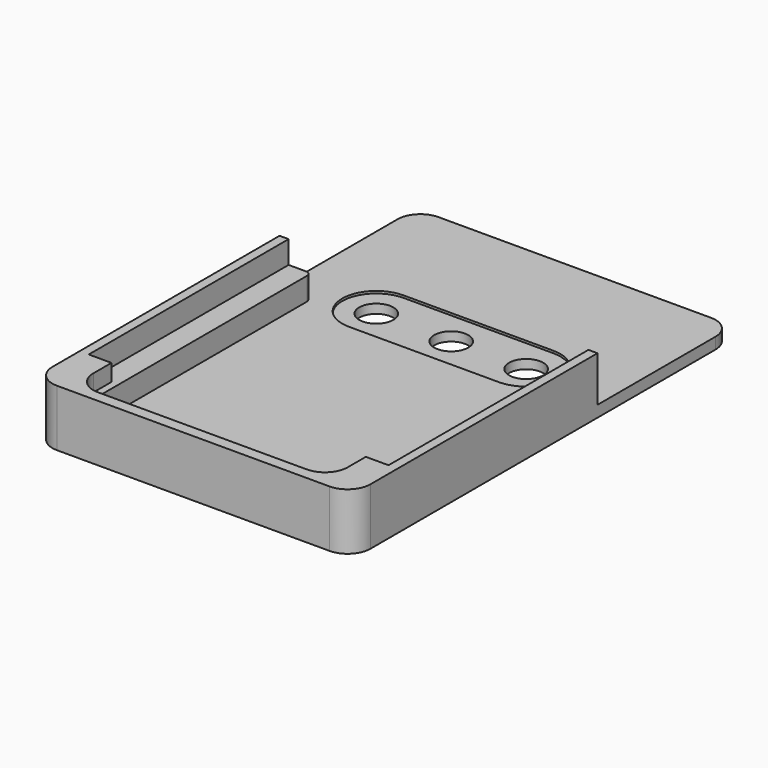
from build123d import *

# Parameters (mm, degrees)
PAD_DEPTH       = 1.27
POCKET_DEPTH    = 0.635
SKETCH002_R     = 1.905
POCKET001_DEPTH = 5.08
PAD001_DEPTH    = 5.08
SKETCH005_W     = 33.528
SKETCH005_H     = 0.6604
POCKET002_DEPTH = 33.02
SKETCH006_W     = 33.528
SKETCH006_H     = 27.94
POCKET003_DEPTH = 2.54
POCKET004_DEPTH = 0.254


with BuildPart() as part:
    # Sketch → Pad (new body)
    with BuildSketch(Plane.XY):
        with BuildLine():
            Line((-15.24, 0), (15.24, 0))
            ThreePointArc((15.24, 0), (17.036051, 0.743949), (17.78, 2.54))
            Line((17.78, 2.54), (17.78, 50.8))
            ThreePointArc((17.78, 50.8), (17.036051, 52.596051), (15.24, 53.34))
            Line((15.24, 53.34), (-15.24, 53.34))
            ThreePointArc((-15.24, 53.34), (-17.036051, 52.596051), (-17.78, 50.8))
            Line((-17.78, 2.54), (-17.78, 50.8))
            ThreePointArc((-17.78, 2.54), (-17.036051, 0.743949), (-15.24, 0))
        make_face()
    extrude(amount=PAD_DEPTH)

    # Sketch001 (on Face9 of Pad) → Pocket (cut)
    with BuildSketch(Plane(origin=(0, 0, 0), x_dir=(1, 0, 0), z_dir=(0, 0, -1))):
        with BuildLine():
            Line((-12.7, -2.54), (12.7, -2.54))
            ThreePointArc((13.97, -3.81), (13.598026, -2.911974), (12.7, -2.54))
            Line((13.97, -3.81), (13.97, -31.75))
            ThreePointArc((12.7, -33.02), (13.598026, -32.648026), (13.97, -31.75))
            Line((12.7, -33.02), (-12.7, -33.02))
            ThreePointArc((-13.97, -31.75), (-13.598026, -32.648026), (-12.7, -33.02))
            Line((-13.97, -3.81), (-13.97, -31.75))
            ThreePointArc((-12.7, -2.54), (-13.598026, -2.911974), (-13.97, -3.81))
        make_face()
    extrude(amount=-POCKET_DEPTH, mode=Mode.SUBTRACT)

    # Sketch002 (on Face4 of Pocket) → Pocket001 (cut)
    with BuildSketch(Plane(origin=(0, 0, 0), x_dir=(1, 0, 0), z_dir=(0, 0, -1))):
        with Locations((0, -36.068)):
            Circle(SKETCH002_R)
        with Locations((8.382, -36.068)):
            Circle(SKETCH002_R)
        with Locations((-8.382, -36.068)):
            Circle(SKETCH002_R)
    extrude(amount=-POCKET001_DEPTH, mode=Mode.SUBTRACT)

    # Sketch004 (on Face5 of Pocket001) → Pad001 (join)
    with BuildSketch(Plane.XY.offset(1.27)):
        with BuildLine():
            Line((-15.24, 0), (15.24, 0))
            ThreePointArc((15.24, 0), (17.036051, 0.743949), (17.78, 2.54))
            Line((17.78, 34.29), (17.78, 2.54))
            Line((17.78, 34.29), (14.859, 34.29))
            ThreePointArc((14.859, 34.29), (14.409987, 34.104013), (14.224, 33.655))
            Line((14.224, 33.655), (14.224, 3.81))
            ThreePointArc((11.684, 1.27), (13.480051, 2.013949), (14.224, 3.81))
            Line((11.684, 1.27), (-11.684, 1.27))
            ThreePointArc((-14.224, 3.81), (-13.480051, 2.013949), (-11.684, 1.27))
            Line((-14.224, 3.81), (-14.224, 33.655))
            ThreePointArc((-14.224, 33.655), (-14.409987, 34.104013), (-14.859, 34.29))
            Line((-17.78, 34.29), (-14.859, 34.29))
            Line((-17.78, 2.54), (-17.78, 34.29))
            ThreePointArc((-17.78, 2.54), (-17.036051, 0.743949), (-15.24, 0))
        make_face()
    extrude(amount=PAD001_DEPTH)

    # Sketch005 (on Face27 of Pad001) → Pocket002 (cut)
    with BuildSketch(Plane(origin=(0, 34.29, 0), x_dir=(-1, 0, 0), z_dir=(0, 1, 0))):
        with Locations((0, 4.1402)):
            Rectangle(SKETCH005_W, SKETCH005_H)
    extrude(amount=-POCKET002_DEPTH, mode=Mode.SUBTRACT)

    # Sketch006 (on Face25 of Pocket002) → Pocket003 (cut)
    with BuildSketch(Plane.XY.offset(6.35)):
        with Locations((0, 20.32)):
            Rectangle(SKETCH006_W, SKETCH006_H)
    extrude(amount=-POCKET003_DEPTH, mode=Mode.SUBTRACT)

    # Sketch007 (on Face8 of Pocket003) → Pocket004 (cut)
    with BuildSketch(Plane.XY.offset(1.27)):
        with BuildLine():
            ThreePointArc((-8.382, 39.878), (-12.192, 36.068), (-8.382, 32.258))
            Line((-8.382, 32.258), (8.382, 32.258))
            ThreePointArc((8.382, 32.258), (12.192, 36.068), (8.382, 39.878))
            Line((8.382, 39.878), (-8.382, 39.878))
        make_face()
    extrude(amount=-POCKET004_DEPTH, mode=Mode.SUBTRACT)


solid = part.part
